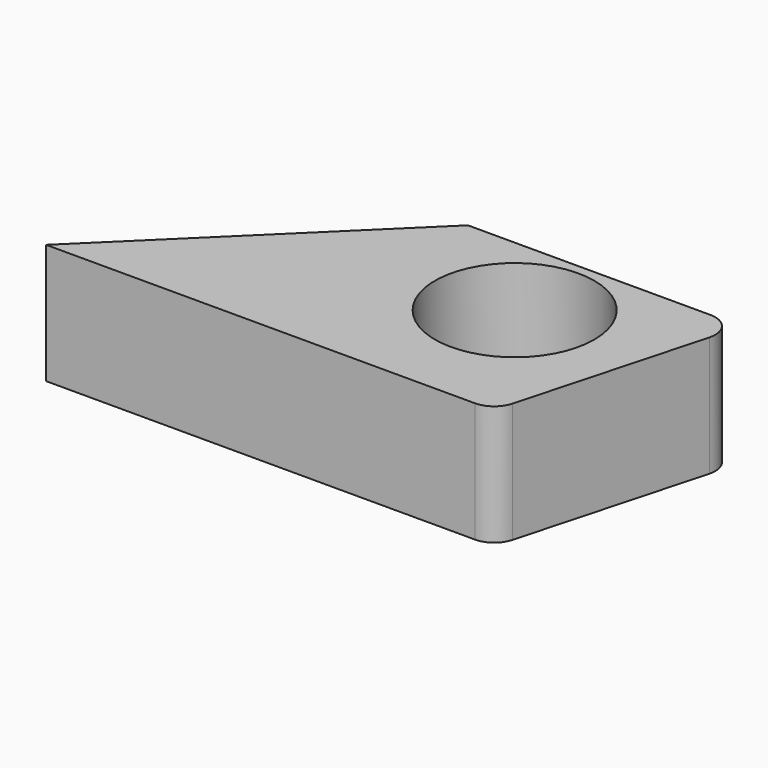
from build123d import *

# Parameters (mm, degrees)
F1_DEPTH = 25.4
F2_R     = 16.867449
F3_DEPTH = 25.4
F4_R     = 5.08


with BuildPart() as f1:
    # F0 (on Top) → F1 (new body)
    with BuildSketch(Plane.XY):
        Polygon((57.987113, 61.335813), (0, 61.335813), (-50.072946, 12.33043), (44.593185, 12.33043), align=None)
    extrude(amount=F1_DEPTH)

    # F2 (on face) → F3 (cut)
    with BuildSketch(Plane.XY.offset(25.4)):
        with Locations((25.008492, 42.449769)):
            Circle(F2_R)
    extrude(amount=-F3_DEPTH, mode=Mode.SUBTRACT)

    # F4
    f4_edges = [f1.edges().sort_by_distance(p)[0] for p in [
        (44.593185, 12.33043, 12.7),
        (57.987113, 61.335813, 12.7),
    ]]
    fillet(f4_edges, radius=F4_R)


solid = f1.part
